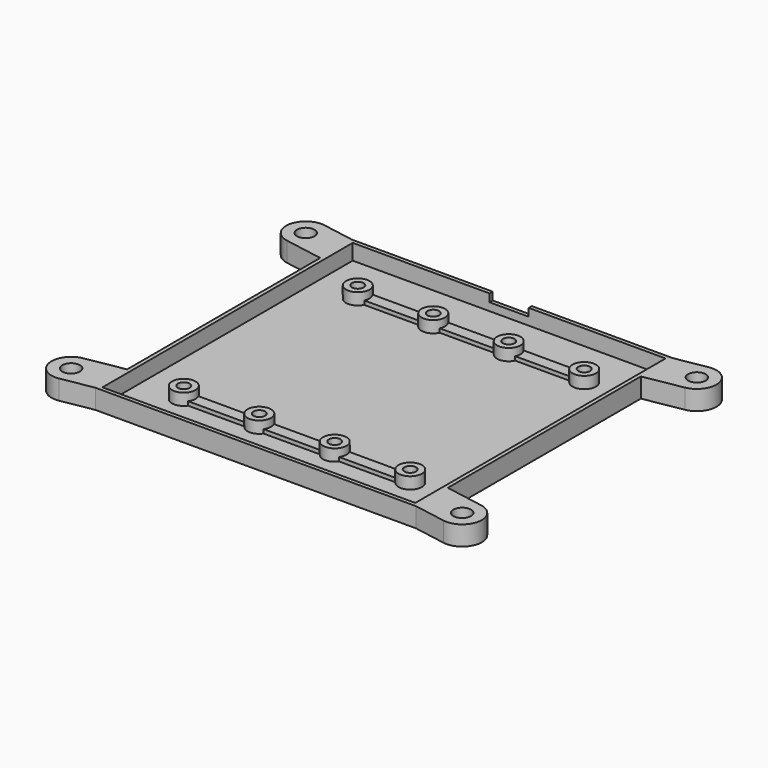
from build123d import *

# Parameters (mm, degrees)
SKETCH111_W     = 80
SKETCH111_H     = 80
PAD042_DEPTH    = 5
SKETCH112_W     = 82
SKETCH112_H     = 82
PAD043_DEPTH    = 1
SKETCH114_R     = 3
SKETCH114_R_2   = 1.375
PAD045_DEPTH    = 4
SKETCH215_W     = 16
SKETCH215_H     = 3
PAD095_DEPTH    = 2
SKETCH216_R     = 2.25
POCKET088_DEPTH = 10
SKETCH217_W     = 10
SKETCH217_H     = 2
POCKET089_DEPTH = 5
SKETCH255_R     = 1.5
POCKET103_DEPTH = 5


with BuildPart() as part:
    # Sketch111 → Pad042 (new body)
    with BuildSketch(Plane.XY):
        with BuildLine():
            Line((-41.02059, 41), (40.97941, 41))
            Line((49.139632, 42.42542), (40.97941, 41))
            ThreePointArc((50.860368, 32.57458), (54.92542, 38.360368), (49.139632, 42.42542))
            Line((41, 30.852179), (50.860368, 32.57458))
            Line((41, 30.852179), (41, -30.847821))
            Line((50.86248, -32.574949), (41, -30.847821))
            ThreePointArc((49.13752, -42.425051), (54.925051, -38.36248), (50.86248, -32.574949))
            Line((41, -41), (49.13752, -42.425051))
            Line((41, -41), (-41, -41))
            Line((-49.13752, -42.425051), (-41, -41))
            ThreePointArc((-50.86248, -32.574949), (-54.925051, -38.36248), (-49.13752, -42.425051))
            Line((-50.86248, -32.574949), (-41, -30.847821))
            Line((-41, -30.847821), (-41, 30.843439))
            Line((-41, 30.843439), (-50.864603, 32.575321))
            ThreePointArc((-49.135397, 42.424679), (-54.924679, 38.364603), (-50.864603, 32.575321))
            Line((-41.02059, 41), (-49.135397, 42.424679))
        make_face()
        Rectangle(SKETCH111_W, SKETCH111_H, mode=Mode.SUBTRACT)
    extrude(amount=PAD042_DEPTH)

    # Sketch112 → Pad043 (join)
    with BuildSketch(Plane.XY):
        Rectangle(SKETCH112_W, SKETCH112_H)
    extrude(amount=PAD043_DEPTH)

    # Sketch114 → Pad045 (join)
    with BuildSketch(Plane.XY):
        with Locations((-28.95, 27.805)):
            Circle(SKETCH114_R)
        with Locations((-28.95, 27.805)):
            Circle(SKETCH114_R_2, mode=Mode.SUBTRACT)
        with Locations((-9.65, 27.805)):
            Circle(SKETCH114_R)
        with Locations((-9.65, 27.805)):
            Circle(SKETCH114_R_2, mode=Mode.SUBTRACT)
        with Locations((9.65, 27.805)):
            Circle(SKETCH114_R)
        with Locations((9.65, 27.805)):
            Circle(SKETCH114_R_2, mode=Mode.SUBTRACT)
        with Locations((28.95, 27.805)):
            Circle(SKETCH114_R)
        with Locations((28.95, 27.805)):
            Circle(SKETCH114_R_2, mode=Mode.SUBTRACT)
        with Locations((28.95, -27.805)):
            Circle(SKETCH114_R)
        with Locations((28.95, -27.805)):
            Circle(SKETCH114_R_2, mode=Mode.SUBTRACT)
        with Locations((9.65, -27.805)):
            Circle(SKETCH114_R)
        with Locations((9.65, -27.805)):
            Circle(SKETCH114_R_2, mode=Mode.SUBTRACT)
        with Locations((-9.65, -27.805)):
            Circle(SKETCH114_R)
        with Locations((-9.65, -27.805)):
            Circle(SKETCH114_R_2, mode=Mode.SUBTRACT)
        with Locations((-28.95, -27.805)):
            Circle(SKETCH114_R)
        with Locations((-28.95, -27.805)):
            Circle(SKETCH114_R_2, mode=Mode.SUBTRACT)
    extrude(amount=PAD045_DEPTH)

    # Sketch215 → Pad095 (join)
    with BuildSketch(Plane.XY):
        with Locations((-20, 28)):
            Rectangle(SKETCH215_W, SKETCH215_H)
        with Locations((20, 28)):
            Rectangle(SKETCH215_W, SKETCH215_H)
        with Locations((-20, -28)):
            Rectangle(SKETCH215_W, SKETCH215_H)
        with Locations((20, -28)):
            Rectangle(SKETCH215_W, SKETCH215_H)
        with Locations((0, 28)):
            Rectangle(SKETCH215_W, SKETCH215_H)
        with Locations((0, -28)):
            Rectangle(SKETCH215_W, SKETCH215_H)
    extrude(amount=PAD095_DEPTH)

    # Sketch216 → Pocket088 (cut)
    with BuildSketch(Plane.XY):
        with Locations((-50, 37.5)):
            Circle(SKETCH216_R)
        with Locations((50, 37.5)):
            Circle(SKETCH216_R)
        with Locations((50, -37.5)):
            Circle(SKETCH216_R)
        with Locations((-50, -37.5)):
            Circle(SKETCH216_R)
    extrude(amount=POCKET088_DEPTH, mode=Mode.SUBTRACT)

    # Sketch217 (on Face1 of Pocket088) → Pocket089 (cut)
    with BuildSketch(Plane(origin=(0, 41, 0), x_dir=(-1, 0, 0), z_dir=(0, 1, 0))):
        with Locations((0, 4)):
            Rectangle(SKETCH217_W, SKETCH217_H)
    extrude(amount=-POCKET089_DEPTH, mode=Mode.SUBTRACT)

    # Sketch255 → Pocket103 (cut, symmetric)
    with BuildSketch(Plane.XY):
        with Locations((-9.65, 27.805)):
            Circle(SKETCH255_R)
        with Locations((9.65, 27.805)):
            Circle(SKETCH255_R)
        with Locations((-9.65, -27.805)):
            Circle(SKETCH255_R)
        with Locations((9.65, -27.805)):
            Circle(SKETCH255_R)
        with Locations((-28.95, 27.805)):
            Circle(SKETCH255_R)
        with Locations((28.95, 27.805)):
            Circle(SKETCH255_R)
        with Locations((28.95, -27.805)):
            Circle(SKETCH255_R)
        with Locations((-28.95, -27.805)):
            Circle(SKETCH255_R)
    extrude(amount=POCKET103_DEPTH, both=True, mode=Mode.SUBTRACT)


with BuildPart() as part_1:
    # Body013 placement: moved
    add(part.part.moved(Location((-108, 0, 0))))


solid = part_1.part
